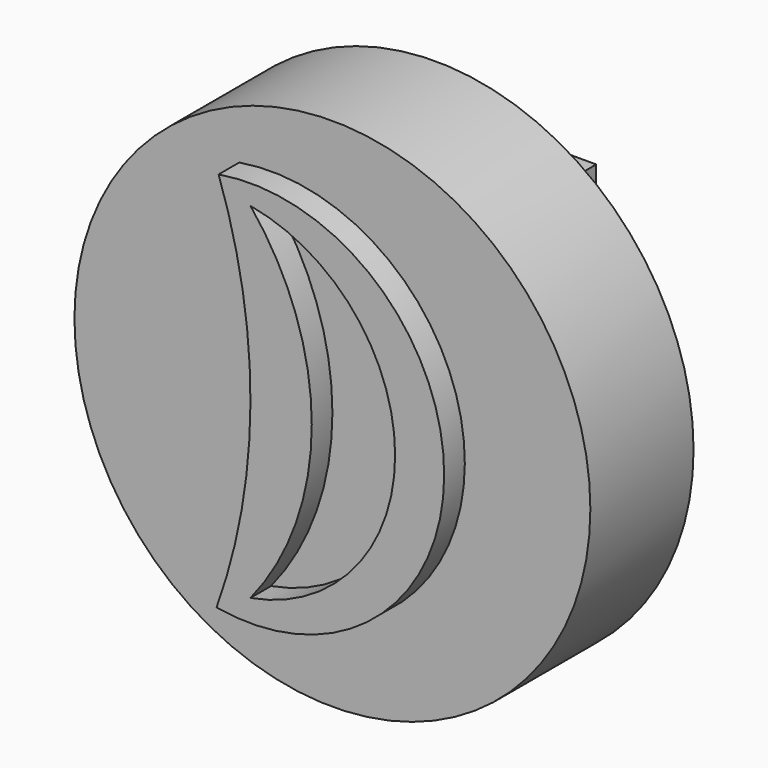
from build123d import *

# Parameters (mm, degrees)
F0_R      = 12.7
F1_DEPTH  = 25.4
F1_FACE_R = 12.7
F2_DEPTH  = 19.05
F4_DEPTH  = 1.27
F5_W      = 2.606842
F5_H      = 9.399671
F6_DEPTH  = 1.27


with BuildPart() as f1:
    # F0 (on Front) → F1 (new body)
    with BuildSketch(Plane.XZ):
        Circle(F0_R)
    extrude(amount=F1_DEPTH)

    # F1_face (on face) → F2 (cut)
    with BuildSketch(Plane.XZ.offset(25.4)):
        Circle(F1_FACE_R)
    extrude(amount=-F2_DEPTH, mode=Mode.SUBTRACT)

    # F3 (on face) → F4 (join)
    with BuildSketch(Plane.XZ.offset(6.35)):
        with BuildLine():
            ThreePointArc((-4.587039, 9.399671), (-3.018959, -0.00863), (-4.687303, -9.399671))
            ThreePointArc((-4.687303, -9.399671), (6.518988, -0.0595), (-4.587039, 9.399671))
        make_face()
        with BuildLine():
            ThreePointArc((-3.018959, 8.547434), (4.103795, 0.050131), (-3.018959, -8.447171))
            ThreePointArc((-3.018959, -8.447171), (9.3e-05, 0.050131), (-3.018959, 8.547434))
        make_face(mode=Mode.SUBTRACT)
    extrude(amount=F4_DEPTH)

    # F5 (on face) → F6 (join)
    with BuildSketch(Plane(origin=(0, 0, 0), x_dir=(-1, 0, 0), z_dir=(0, 1, 0))):
        Polygon((-1.228224, 7.895724), (-1.228224, 0), (1.378618, 0), (1.378618, 7.895724), (6.592303, 7.895724), (6.592303, 9.951118), (-6.893092, 9.951118), (-6.893092, 7.895724), align=None)
        with Locations((0.075197, -4.699835)):
            Rectangle(F5_W, F5_H)
    extrude(amount=F6_DEPTH)


solid = f1.part
